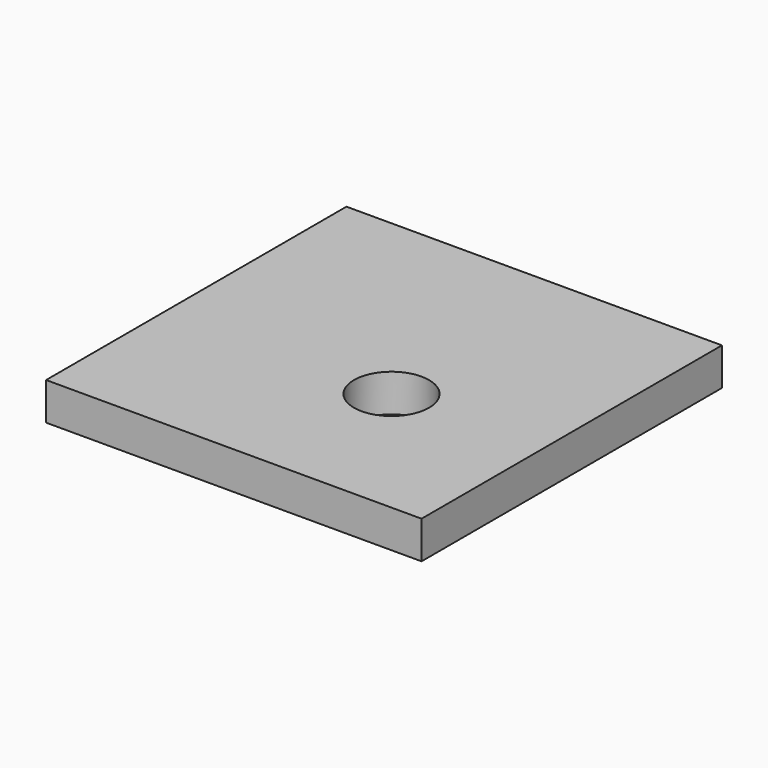
from build123d import *

# Parameters (mm, degrees)
SKETCH_W    = 100
SKETCH_H    = 100
SKETCH_R    = 10
PAD_DEPTH   = 10
SKETCH002_R = 1


with BuildPart() as part:
    # Sketch → Pad (new body)
    with BuildSketch(Plane.XY):
        with Locations((50, 50)):
            Rectangle(SKETCH_W, SKETCH_H)
        with Locations((60, 40)):
            Circle(SKETCH_R, mode=Mode.SUBTRACT)
    extrude(amount=PAD_DEPTH)

    # SubtractivePipe: sweep along a path in Sketch001
    with BuildLine(Plane.XY.offset(5)) as subtractivepipe_path:
        Line((-10, 20), (60, 20))
        ThreePointArc((60, 20), (74.142136, 25.857864), (80, 40))
        Line((80, 40), (80, 110))
    # Sketch002 → SubtractivePipe (sweep, cut)
    with BuildSketch(Plane(origin=(0, 0, 5), x_dir=(0, 1, 0), z_dir=(1, 0, 0))):
        with Locations((20, 0)):
            Circle(SKETCH002_R)
    sweep(path=subtractivepipe_path.line, mode=Mode.SUBTRACT)

    # AdditivePipe: sweep along a path in Sketch005
    with BuildLine(Plane.XY.offset(5)) as additivepipe_path:
        Line((0, 20), (60, 20))
        ThreePointArc((60, 20), (74.142136, 25.857864), (80, 40))
        Line((80, 40), (80, 100))
    # Sketch006 → AdditivePipe (sweep)
    with BuildSketch(Plane(origin=(0, 20, 5), x_dir=(0, 1, 0), z_dir=(1, 0, 0))):
        with BuildLine():
            ThreePointArc((0, -1), (0.707107, -0.707107), (1, 0))
            Line((1, 0), (0, 0))
            Line((0, 0), (0, -1))
        make_face()
    sweep(path=additivepipe_path.line)

    # AdditivePipe001: sweep along a path in Sketch011
    with BuildLine(Plane.XY.offset(5)) as additivepipe001_path:
        Line((0, 20), (60, 20))
        ThreePointArc((60, 20), (74.142136, 25.857864), (80, 40))
        Line((80, 40), (80, 100))
    # Sketch012 → AdditivePipe001 (sweep)
    with BuildSketch(Plane(origin=(0, 20, 5), x_dir=(0, 0, 1), z_dir=(1, 0, 0))):
        with BuildLine():
            ThreePointArc((0, -1), (0.707107, -0.707107), (1, 0))
            Line((1, 0), (0, 0))
            Line((0, 0), (0, -1))
        make_face()
    sweep(path=additivepipe001_path.line)

    # AdditivePipe002: sweep along a path in Sketch016
    with BuildLine(Plane.XY.offset(5)) as additivepipe002_path:
        Line((0, 20), (60, 20))
        ThreePointArc((60, 20), (74.142136, 25.857864), (80, 40))
        Line((80, 40), (80, 100))
    # Sketch015 → AdditivePipe002 (sweep)
    with BuildSketch(Plane(origin=(0, 20, 5), x_dir=(0, 0, -1), z_dir=(1, 0, 0))):
        with BuildLine():
            ThreePointArc((0, -1), (0.707107, -0.707107), (1, 0))
            Line((1, 0), (0, 0))
            Line((0, 0), (0, -1))
        make_face()
    sweep(path=additivepipe002_path.line)

    # AdditivePipe003: sweep along a path in Sketch013
    with BuildLine(Plane.XY.offset(5)) as additivepipe003_path:
        Line((0, 20), (60, 20))
        ThreePointArc((60, 20), (74.142136, 25.857864), (80, 40))
        Line((80, 40), (80, 100))
    # Sketch014 → AdditivePipe003 (sweep)
    with BuildSketch(Plane(origin=(0, 20, 5), x_dir=(0, -1, 0), z_dir=(1, 0, 0))):
        with BuildLine():
            ThreePointArc((0, -1), (0.707107, -0.707107), (1, 0))
            Line((1, 0), (0, 0))
            Line((0, 0), (0, -1))
        make_face()
    sweep(path=additivepipe003_path.line)


solid = part.part
